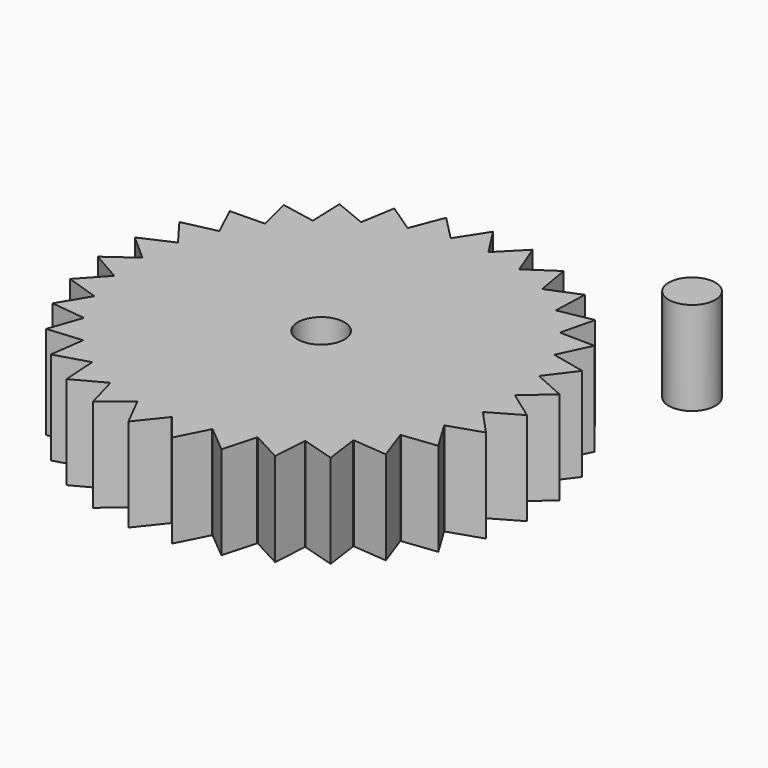
from build123d import *

# Parameters (mm, degrees)
F0_R     = 6.35
F1_DEPTH = 25.4
F2_R     = 6.35
F3_DEPTH = 25.4


with BuildPart() as f1:
    # F0 (on Top) → F1 (new body)
    with BuildSketch(Plane.XY):
        with BuildLine():
            ThreePointArc((50.224149, -7.627247), (50.655833, -3.824477), (50.8, 0))
            ThreePointArc((50.8, 0), (50.784523, 1.253893), (50.738101, 2.507021))
            ThreePointArc((50.738101, 2.507021), (50.734799, 2.572978), (50.731411, 2.63893))
            ThreePointArc((50.731411, 2.63893), (50.214191, 7.692531), (49.194829, 12.669207))
            ThreePointArc((49.194829, 12.669207), (49.178318, 12.733149), (49.161723, 12.797069))
            ThreePointArc((49.161723, 12.797069), (47.637808, 17.643107), (45.637515, 22.312714))
            ThreePointArc((45.637515, 22.312714), (45.608471, 22.372023), (45.579349, 22.431294))
            ThreePointArc((45.579349, 22.431294), (43.111128, 26.871372), (40.211796, 31.042735))
            ThreePointArc((40.211796, 31.042735), (40.171407, 31.094984), (40.13095, 31.14718))
            ThreePointArc((40.13095, 31.14718), (36.819474, 34.999519), (33.139802, 38.501864))
            ThreePointArc((33.139802, 38.501864), (33.089722, 38.544913), (33.039586, 38.587896))
            ThreePointArc((33.039586, 38.587896), (29.020425, 41.694783), (24.71106, 44.384722))
            ThreePointArc((24.71106, 44.384722), (24.65334, 44.416808), (24.595578, 44.44882))
            ThreePointArc((24.595578, 44.44882), (20.033277, 46.683057), (15.270644, 48.450464))
            ThreePointArc((15.270644, 48.450464), (15.207647, 48.470274), (15.144623, 48.490003))
            ThreePointArc((15.144623, 48.490003), (10.225965, 49.760121), (5.205047, 50.532638))
            ThreePointArc((5.205047, 50.532638), (5.139351, 50.539362), (5.073646, 50.546))
            ThreePointArc((5.073646, 50.546), (2.54, 50.73646), (0, 50.8))
            ThreePointArc((0, 50.8), (-2.54, 50.73646), (-5.073646, 50.546))
            ThreePointArc((-5.073646, 50.546), (-5.139351, 50.539362), (-5.205047, 50.532638))
            ThreePointArc((-5.205047, 50.532638), (-10.225965, 49.760121), (-15.144623, 48.490003))
            ThreePointArc((-15.144623, 48.490003), (-15.207647, 48.470274), (-15.270644, 48.450464))
            ThreePointArc((-15.270644, 48.450464), (-20.033277, 46.683057), (-24.595578, 44.44882))
            ThreePointArc((-24.595578, 44.44882), (-24.65334, 44.416808), (-24.71106, 44.384722))
            ThreePointArc((-24.71106, 44.384722), (-29.020425, 41.694783), (-33.039586, 38.587896))
            ThreePointArc((-33.039586, 38.587896), (-33.089722, 38.544913), (-33.139802, 38.501864))
            ThreePointArc((-33.139802, 38.501864), (-36.819474, 34.999519), (-40.13095, 31.14718))
            ThreePointArc((-40.13095, 31.14718), (-40.171407, 31.094984), (-40.211796, 31.042735))
            ThreePointArc((-40.211796, 31.042735), (-43.111128, 26.871372), (-45.579349, 22.431294))
            ThreePointArc((-45.579349, 22.431294), (-45.608471, 22.372023), (-45.637515, 22.312714))
            ThreePointArc((-45.637515, 22.312714), (-47.637808, 17.643107), (-49.161723, 12.797069))
            ThreePointArc((-49.161723, 12.797069), (-49.178318, 12.733149), (-49.194829, 12.669207))
            ThreePointArc((-49.194829, 12.669207), (-50.214191, 7.692531), (-50.731411, 2.63893))
            ThreePointArc((-50.731411, 2.63893), (-50.734799, 2.572978), (-50.738101, 2.507021))
            ThreePointArc((-50.738101, 2.507021), (-50.734799, -2.572978), (-50.224149, -7.627247))
            ThreePointArc((-50.224149, -7.627247), (-50.214191, -7.692531), (-50.204148, -7.757802))
            ThreePointArc((-50.204148, -7.757802), (-49.178318, -12.733149), (-47.660704, -17.581164))
            ThreePointArc((-47.660704, -17.581164), (-47.637808, -17.643107), (-47.614832, -17.70502))
            ThreePointArc((-47.614832, -17.70502), (-45.608471, -22.372023), (-43.146024, -26.815305))
            ThreePointArc((-43.146024, -26.815305), (-43.111128, -26.871372), (-43.076159, -26.927393))
            ThreePointArc((-43.076159, -26.927393), (-40.171407, -31.094984), (-36.864941, -34.951625))
            ThreePointArc((-36.864941, -34.951625), (-36.819474, -34.999519), (-36.773944, -35.047355))
            ThreePointArc((-36.773944, -35.047355), (-33.089722, -38.544913), (-29.074603, -41.657021))
            ThreePointArc((-29.074603, -41.657021), (-29.020425, -41.694783), (-28.966198, -41.732474))
            ThreePointArc((-28.966198, -41.732474), (-24.65334, -44.416808), (-20.093948, -46.656974))
            ThreePointArc((-20.093948, -46.656974), (-20.033277, -46.683057), (-19.972573, -46.70906))
            ThreePointArc((-19.972573, -46.70906), (-15.207647, -48.470274), (-10.290644, -49.746785))
            ThreePointArc((-10.290644, -49.746785), (-10.225965, -49.760121), (-10.161269, -49.773373))
            ThreePointArc((-10.161269, -49.773373), (-5.139351, -50.539362), (-0.066039, -50.799957))
            ThreePointArc((-0.066039, -50.799957), (0, -50.8), (0.066039, -50.799957))
            ThreePointArc((0.066039, -50.799957), (5.139351, -50.539362), (10.161269, -49.773373))
            ThreePointArc((10.161269, -49.773373), (10.225965, -49.760121), (10.290644, -49.746785))
            ThreePointArc((10.290644, -49.746785), (15.207647, -48.470274), (19.972573, -46.70906))
            ThreePointArc((19.972573, -46.70906), (20.033277, -46.683057), (20.093948, -46.656974))
            ThreePointArc((20.093948, -46.656974), (24.65334, -44.416808), (28.966198, -41.732474))
            ThreePointArc((28.966198, -41.732474), (29.020425, -41.694783), (29.074603, -41.657021))
            ThreePointArc((29.074603, -41.657021), (33.089722, -38.544913), (36.773944, -35.047355))
            ThreePointArc((36.773944, -35.047355), (36.819474, -34.999519), (36.864941, -34.951625))
            ThreePointArc((36.864941, -34.951625), (40.171407, -31.094984), (43.076159, -26.927393))
            ThreePointArc((43.076159, -26.927393), (43.111128, -26.871372), (43.146024, -26.815305))
            ThreePointArc((43.146024, -26.815305), (45.608471, -22.372023), (47.614832, -17.70502))
            ThreePointArc((47.614832, -17.70502), (47.637808, -17.643107), (47.660704, -17.581164))
            ThreePointArc((47.660704, -17.581164), (49.178318, -12.733149), (50.204148, -7.757802))
            ThreePointArc((50.204148, -7.757802), (50.214191, -7.692531), (50.224149, -7.627247))
        make_face()
        Circle(F0_R, mode=Mode.SUBTRACT)
        with BuildLine():
            ThreePointArc((50.738101, 2.507021), (50.784523, 1.253893), (50.8, 0))
            ThreePointArc((50.8, 0), (50.655833, -3.824477), (50.224149, -7.627247))
            Line((50.224149, -7.627247), (58.345018, -2.958924))
            Line((58.345018, -2.958924), (50.738101, 2.507021))
        make_face()
        with BuildLine():
            ThreePointArc((49.194829, 12.669207), (50.214191, 7.692531), (50.731411, 2.63893))
            Line((50.731411, 2.63893), (57.74632, 8.846411))
            Line((57.74632, 8.846411), (49.194829, 12.669207))
        make_face()
        with BuildLine():
            Line((56.555065, -14.643121), (50.204148, -7.757802))
            ThreePointArc((50.204148, -7.757802), (49.178318, -12.733149), (47.660704, -17.581164))
            Line((47.660704, -17.581164), (56.555065, -14.643121))
        make_face()
        with BuildLine():
            ThreePointArc((45.637515, 22.312714), (47.637808, 17.643107), (49.161723, 12.797069))
            Line((49.161723, 12.797069), (54.78348, 20.289573))
            Line((54.78348, 20.289573), (45.637515, 22.312714))
        make_face()
        with BuildLine():
            Line((52.449741, -25.727826), (47.614832, -17.70502))
            ThreePointArc((47.614832, -17.70502), (45.608471, -22.372023), (43.146024, -26.815305))
            Line((43.146024, -26.815305), (52.449741, -25.727826))
        make_face()
        with BuildLine():
            ThreePointArc((40.211796, 31.042735), (43.111128, 26.871372), (45.579349, 22.431294))
            Line((45.579349, 22.431294), (49.577798, 30.902077))
            Line((49.577798, 30.902077), (40.211796, 31.042735))
        make_face()
        with BuildLine():
            Line((46.197119, -35.759232), (43.076159, -26.927393))
            ThreePointArc((43.076159, -26.927393), (40.171407, -31.094984), (36.864941, -34.951625))
            Line((36.864941, -34.951625), (46.197119, -35.759232))
        make_face()
        with BuildLine():
            ThreePointArc((33.139802, 38.501864), (36.819474, 34.999519), (40.13095, 31.14718))
            Line((40.13095, 31.14718), (42.342395, 40.249447))
            Line((42.342395, 40.249447), (33.139802, 38.501864))
        make_face()
        with BuildLine():
            Line((38.05318, -44.32665), (36.773944, -35.047355))
            ThreePointArc((36.773944, -35.047355), (33.089722, -38.544913), (29.074603, -41.657021))
            Line((29.074603, -41.657021), (38.05318, -44.32665))
        make_face()
        with BuildLine():
            ThreePointArc((24.71106, 44.384722), (29.020425, 41.694783), (33.039586, 38.587896))
            Line((33.039586, 38.587896), (33.373489, 47.949))
            Line((33.373489, 47.949), (24.71106, 44.384722))
        make_face()
        with BuildLine():
            Line((28.351341, -51.079329), (28.966198, -41.732474))
            ThreePointArc((28.966198, -41.732474), (24.65334, -44.416808), (20.093948, -46.656974))
            Line((20.093948, -46.656974), (28.351341, -51.079329))
        make_face()
        with BuildLine():
            ThreePointArc((15.270644, 48.450464), (20.033277, 46.683057), (24.595578, 44.44882))
            Line((24.595578, 44.44882), (23.038269, 53.685515))
            Line((23.038269, 53.685515), (15.270644, 48.450464))
        make_face()
        with BuildLine():
            Line((17.488794, -55.740815), (19.972573, -46.70906))
            ThreePointArc((19.972573, -46.70906), (15.207647, -48.470274), (10.290644, -49.746785))
            Line((10.290644, -49.746785), (17.488794, -55.740815))
        make_face()
        with BuildLine():
            ThreePointArc((5.205047, 50.532638), (10.225965, 49.760121), (15.144623, 48.490003))
            Line((15.144623, 48.490003), (11.75986, 57.224139))
            Line((11.75986, 57.224139), (5.205047, 50.532638))
        make_face()
        with BuildLine():
            Line((5.910253, -58.120266), (10.161269, -49.773373))
            ThreePointArc((10.161269, -49.773373), (5.139351, -50.539362), (0.066039, -50.799957))
            Line((0.066039, -50.799957), (5.910253, -58.120266))
        make_face()
        with BuildLine():
            ThreePointArc((0, 50.8), (2.54, 50.73646), (5.073646, 50.546))
            Line((5.073646, 50.546), (0, 58.42))
            Line((0, 58.42), (0, 50.8))
        make_face()
        with BuildLine():
            Line((-5.910253, -58.120266), (-0.066039, -50.799957))
            ThreePointArc((-0.066039, -50.799957), (-5.139351, -50.539362), (-10.161269, -49.773373))
            Line((-10.161269, -49.773373), (-5.910253, -58.120266))
        make_face()
        with BuildLine():
            ThreePointArc((-5.073646, 50.546), (-2.54, 50.73646), (0, 50.8))
            Line((0, 50.8), (0, 58.42))
            Line((0, 58.42), (-5.073646, 50.546))
        make_face()
        with BuildLine():
            Line((-17.488794, -55.740815), (-10.290644, -49.746785))
            ThreePointArc((-10.290644, -49.746785), (-15.207647, -48.470274), (-19.972573, -46.70906))
            Line((-19.972573, -46.70906), (-17.488794, -55.740815))
        make_face()
        with BuildLine():
            ThreePointArc((-15.144623, 48.490003), (-10.225965, 49.760121), (-5.205047, 50.532638))
            Line((-5.205047, 50.532638), (-11.75986, 57.224139))
            Line((-11.75986, 57.224139), (-15.144623, 48.490003))
        make_face()
        with BuildLine():
            Line((-28.351341, -51.079329), (-20.093948, -46.656974))
            ThreePointArc((-20.093948, -46.656974), (-24.65334, -44.416808), (-28.966198, -41.732474))
            Line((-28.966198, -41.732474), (-28.351341, -51.079329))
        make_face()
        with BuildLine():
            ThreePointArc((-24.595578, 44.44882), (-20.033277, 46.683057), (-15.270644, 48.450464))
            Line((-15.270644, 48.450464), (-23.038269, 53.685515))
            Line((-23.038269, 53.685515), (-24.595578, 44.44882))
        make_face()
        with BuildLine():
            Line((-38.05318, -44.32665), (-29.074603, -41.657021))
            ThreePointArc((-29.074603, -41.657021), (-33.089722, -38.544913), (-36.773944, -35.047355))
            Line((-36.773944, -35.047355), (-38.05318, -44.32665))
        make_face()
        with BuildLine():
            ThreePointArc((-33.039586, 38.587896), (-29.020425, 41.694783), (-24.71106, 44.384722))
            Line((-24.71106, 44.384722), (-33.373489, 47.949))
            Line((-33.373489, 47.949), (-33.039586, 38.587896))
        make_face()
        with BuildLine():
            Line((-46.197119, -35.759232), (-36.864941, -34.951625))
            ThreePointArc((-36.864941, -34.951625), (-40.171407, -31.094984), (-43.076159, -26.927393))
            Line((-43.076159, -26.927393), (-46.197119, -35.759232))
        make_face()
        with BuildLine():
            ThreePointArc((-40.13095, 31.14718), (-36.819474, 34.999519), (-33.139802, 38.501864))
            Line((-33.139802, 38.501864), (-42.342395, 40.249447))
            Line((-42.342395, 40.249447), (-40.13095, 31.14718))
        make_face()
        with BuildLine():
            Line((-52.449741, -25.727826), (-43.146024, -26.815305))
            ThreePointArc((-43.146024, -26.815305), (-45.608471, -22.372023), (-47.614832, -17.70502))
            Line((-47.614832, -17.70502), (-52.449741, -25.727826))
        make_face()
        with BuildLine():
            ThreePointArc((-45.579349, 22.431294), (-43.111128, 26.871372), (-40.211796, 31.042735))
            Line((-40.211796, 31.042735), (-49.577798, 30.902077))
            Line((-49.577798, 30.902077), (-45.579349, 22.431294))
        make_face()
        with BuildLine():
            Line((-56.555065, -14.643121), (-47.660704, -17.581164))
            ThreePointArc((-47.660704, -17.581164), (-49.178318, -12.733149), (-50.204148, -7.757802))
            Line((-50.204148, -7.757802), (-56.555065, -14.643121))
        make_face()
        with BuildLine():
            ThreePointArc((-49.161723, 12.797069), (-47.637808, 17.643107), (-45.637515, 22.312714))
            Line((-45.637515, 22.312714), (-54.78348, 20.289573))
            Line((-54.78348, 20.289573), (-49.161723, 12.797069))
        make_face()
        with BuildLine():
            Line((-58.345018, -2.958924), (-50.224149, -7.627247))
            ThreePointArc((-50.224149, -7.627247), (-50.734799, -2.572978), (-50.738101, 2.507021))
            Line((-50.738101, 2.507021), (-58.345018, -2.958924))
        make_face()
        with BuildLine():
            ThreePointArc((-50.731411, 2.63893), (-50.214191, 7.692531), (-49.194829, 12.669207))
            Line((-49.194829, 12.669207), (-57.74632, 8.846411))
            Line((-57.74632, 8.846411), (-50.731411, 2.63893))
        make_face()
    extrude(amount=F1_DEPTH)


with BuildPart() as f3:
    # F2 (on Top) → F3 (new body)
    with BuildSketch(Plane.XY):
        with Locations((50.122309, 63.465722)):
            Circle(F2_R)
    extrude(amount=F3_DEPTH)


solid = Compound([f1.part, f3.part])
